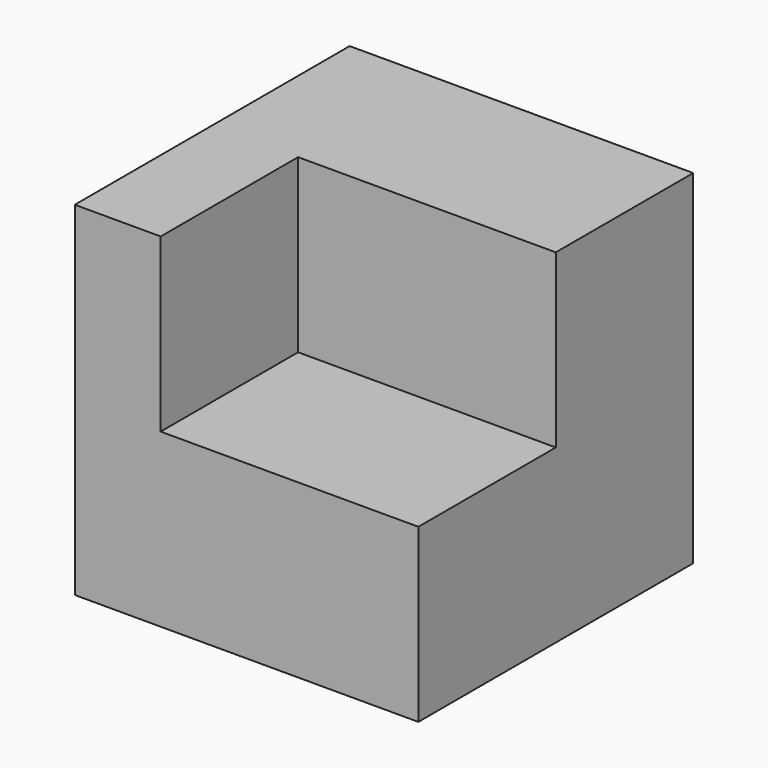
from build123d import *

# Parameters (mm, degrees)
F0_W     = 50.8
F0_H     = 50.8
F1_DEPTH = 50.8
F2_W     = 38.1
F2_H     = 25.4
F3_DEPTH = 25.4


with BuildPart() as f1:
    # F0 (on Top) → F1 (new body)
    with BuildSketch(Plane.XY):
        with Locations((7.234948, 5.714714)):
            Rectangle(F0_W, F0_H)
    extrude(amount=-F1_DEPTH)

    # F2 (on face) → F3 (cut)
    with BuildSketch(Plane.XY):
        with Locations((13.584948, -6.985286)):
            Rectangle(F2_W, F2_H)
    extrude(amount=-F3_DEPTH, mode=Mode.SUBTRACT)


solid = f1.part
